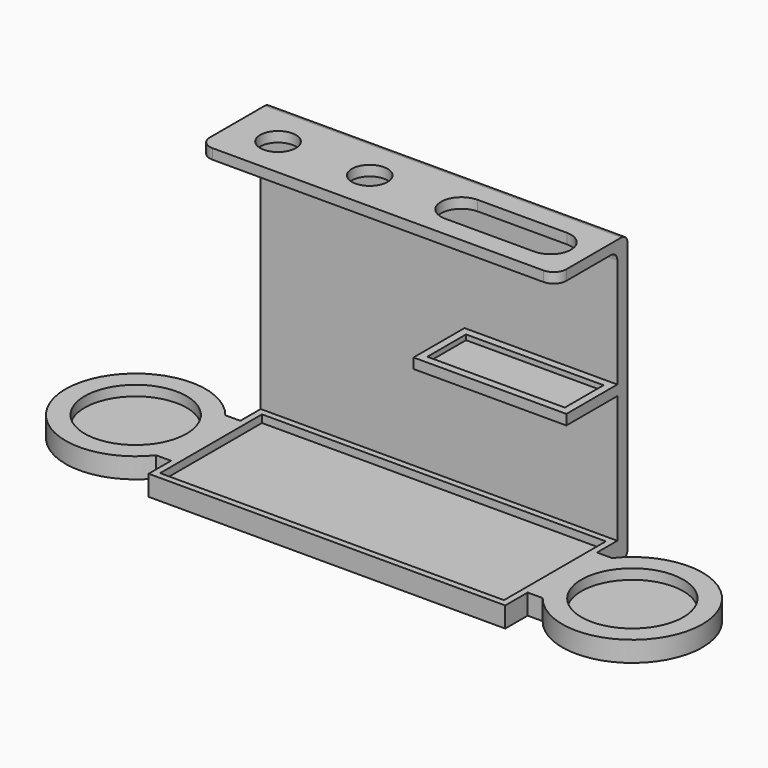
from build123d import *

# Parameters (mm, degrees)
F1_DEPTH      = 70
F1_DEPTH_BACK = 70
F2_R          = 7
F3_DEPTH      = 4
F4_W          = 135
F4_H          = 50
F5_DEPTH      = 3
F7_DEPTH      = 8
F8_R          = 20
F9_DEPTH      = 4
F10_W         = 60
F10_H         = 4
F11_DEPTH     = 25
F12_W         = 54
F12_H         = 19
F13_DEPTH     = 2
F14_R         = 5


with BuildPart() as f1:
    # F0 (on Right) → F1 (new body, two sides)
    with BuildSketch(Plane.YZ) as f1_sk:
        with BuildLine():
            Line((0, -55), (0, 51))
            ThreePointArc((0, 51), (-0.8786796564, 53.1213203436), (-3, 54))
            Line((-3, 54), (-35, 54))
            Line((-35, 54), (-35, 50))
            Line((-35, 50), (-8, 50))
            ThreePointArc((-8, 50), (-5.8786796564, 49.1213203436), (-5, 47))
            Line((-5, 47), (-5, -50))
            Line((-5, -50), (-60, -50))
            Line((-60, -50), (-60, -58))
            Line((-60, -58), (-3, -58))
            ThreePointArc((-3, -58), (-0.8786796564, -57.1213203436), (0, -55))
        make_face()
    extrude(amount=-F1_DEPTH)
    extrude(f1_sk.sketch, amount=F1_DEPTH_BACK)

    # F2 (on face) → F3 (cut, through all)
    with BuildSketch(Plane.XY.offset(54)):
        with BuildLine():
            Line((55, -11), (20, -11))
            ThreePointArc((20, -11), (12, -19), (20, -27))
            Line((20, -27), (55, -27))
            ThreePointArc((55, -27), (63, -19), (55, -11))
        make_face()
        with Locations((-16, -19)):
            Circle(F2_R)
        with Locations((-52, -19)):
            Circle(F2_R)
    extrude(amount=-F3_DEPTH, mode=Mode.SUBTRACT)

    # F4 (on face) → F5 (cut)
    with BuildSketch(Plane.XY.offset(-50)):
        with Locations((0, -32.5)):
            Rectangle(F4_W, F4_H)
    extrude(amount=-F5_DEPTH, mode=Mode.SUBTRACT)

    # F6 (on face) → F7 (join)
    with BuildSketch(Plane.XY.offset(-50)):
        with BuildLine():
            Line((70, -32), (70, -49))
            Line((70, -49), (75.8840336788, -49))
            ThreePointArc((75.8840336788, -49), (71.5126081163, -40.9947464157), (70, -32))
        make_face()
        with BuildLine():
            ThreePointArc((70, -32), (71.5126081163, -40.9947464157), (75.8840336788, -49))
            ThreePointArc((75.8840336788, -49), (106.4947464157, -57.9873918837), (125, -32))
            ThreePointArc((125, -32), (106.4947464157, -6.0126081163), (75.8840336788, -15))
            ThreePointArc((75.8840336788, -15), (71.5126081163, -23.0052535843), (70, -32))
        make_face()
        with BuildLine():
            Line((70, -15), (70, -32))
            ThreePointArc((70, -32), (71.5126081163, -23.0052535843), (75.8840336788, -15))
            Line((75.8840336788, -15), (70, -15))
        make_face()
        with BuildLine():
            ThreePointArc((-75.8840336788, -49), (-71.5126081163, -40.9947464157), (-70, -32))
            ThreePointArc((-70, -32), (-71.5126081163, -23.0052535843), (-75.8840336788, -15))
            ThreePointArc((-75.8840336788, -15), (-125, -32), (-75.8840336788, -49))
        make_face()
        with BuildLine():
            Line((-70, -49), (-70, -32))
            ThreePointArc((-70, -32), (-71.5126081163, -40.9947464157), (-75.8840336788, -49))
            Line((-75.8840336788, -49), (-70, -49))
        make_face()
        with BuildLine():
            ThreePointArc((-75.8840336788, -15), (-71.5126081163, -23.0052535843), (-70, -32))
            Line((-70, -32), (-70, -15))
            Line((-70, -15), (-75.8840336788, -15))
        make_face()
    extrude(amount=-F7_DEPTH)

    # F8 (on face) → F9 (cut)
    with BuildSketch(Plane.XY.offset(-50)):
        with Locations((-97.5, -32)):
            Circle(F8_R)
        with Locations((97.5, -32)):
            Circle(F8_R)
    extrude(amount=-F9_DEPTH, mode=Mode.SUBTRACT)

    # F10 (on face) → F11 (join)
    with BuildSketch(Plane.XZ.offset(5)):
        with Locations((40, 2)):
            Rectangle(F10_W, F10_H)
    extrude(amount=F11_DEPTH)

    # F12 (on face) → F13 (cut)
    with BuildSketch(Plane.XY.offset(4)):
        with Locations((40, -17.5)):
            Rectangle(F12_W, F12_H)
    extrude(amount=-F13_DEPTH, mode=Mode.SUBTRACT)

    # F14
    f14_edges = [f1.edges().sort_by_distance(p)[0] for p in [
        (-70, -35, 52),
        (70, -35, 52),
    ]]
    fillet(f14_edges, radius=F14_R)


solid = f1.part
